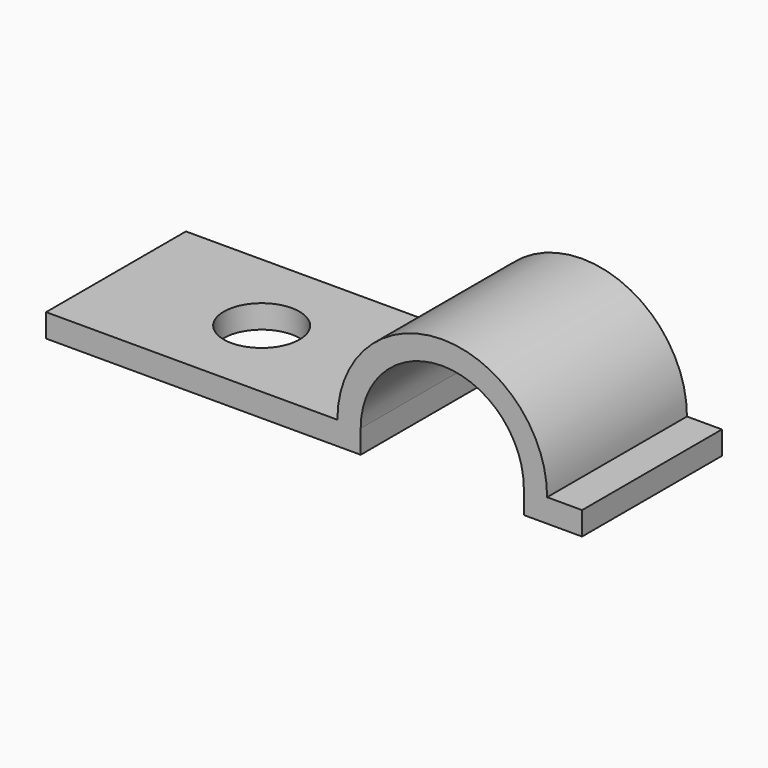
from build123d import *

# Parameters (mm, degrees)
F1_DEPTH = 15
F3_D     = 6.5


with BuildPart() as f1:
    # F0 (on Front) → F1 (new body)
    with BuildSketch(Plane.XZ):
        with BuildLine():
            Line((12.5, 1), (-12.5, 1))
            Line((-12.5, 1), (-12.5, -1))
            Line((-12.5, -1), (12.5, -1))
            Line((12.5, -1), (14.5, -1))
            Line((14.5, -1), (14.5, 1))
            ThreePointArc((14.5, 1), (21.5, 8), (28.5, 1))
            Line((28.5, 1), (28.5, -1))
            Line((28.5, -1), (33.5, -1))
            Line((33.5, -1), (33.5, 1))
            Line((33.5, 1), (30.5, 1))
            ThreePointArc((30.5, 1), (21.5, 10), (12.5, 1))
        make_face()
    extrude(amount=F1_DEPTH)

    # F3 (through all)
    with Locations(Plane.XY.offset(1)):
        with Locations((0, -7.5)):
            Hole(F3_D / 2)


solid = f1.part
